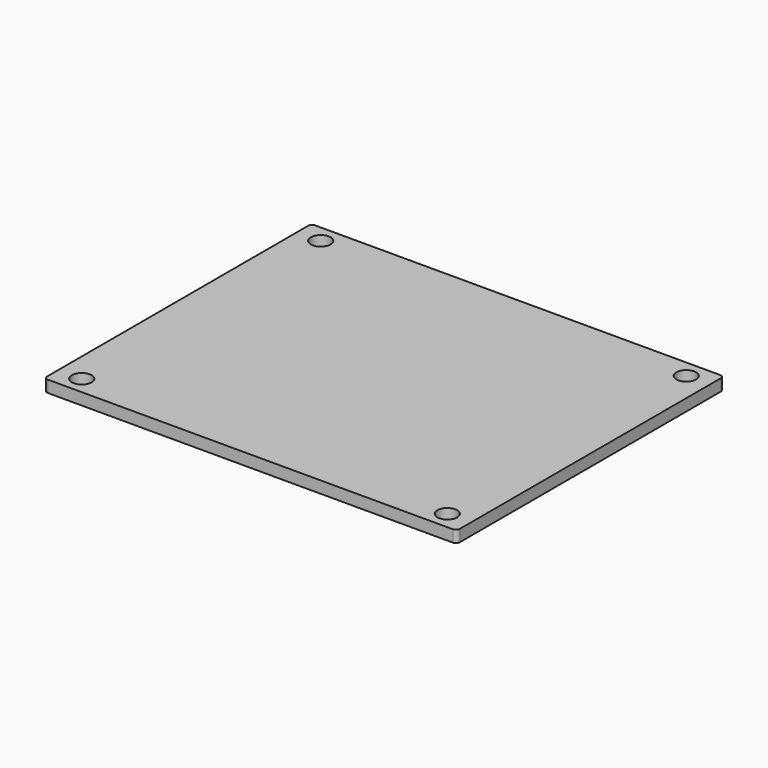
from build123d import *

# Parameters (mm, degrees)
SKETCH_W    = 105
SKETCH_H    = 85
SKETCH_R    = 2.5
PAD_DEPTH   = 3
FILLET_R    = 1
FILLET001_R = 1


with BuildPart() as part:
    # Sketch → Pad (new body)
    with BuildSketch(Plane.XY):
        Rectangle(SKETCH_W, SKETCH_H)
        with Locations((-46.5, 38)):
            Circle(SKETCH_R, mode=Mode.SUBTRACT)
        with Locations((46.5, 38)):
            Circle(SKETCH_R, mode=Mode.SUBTRACT)
        with Locations((-46.5, -38)):
            Circle(SKETCH_R, mode=Mode.SUBTRACT)
        with Locations((46.5, -38)):
            Circle(SKETCH_R, mode=Mode.SUBTRACT)
    extrude(amount=PAD_DEPTH)

    # Fillet
    fillet_edges = [part.edges().sort_by_distance(p)[0] for p in [
        (52.5, 42.5, 1.5),
    ]]
    fillet(fillet_edges, radius=FILLET_R)

    # Fillet001
    fillet001_edges = [part.edges().sort_by_distance(p)[0] for p in [
        (-52.5, 42.5, 1.5),
        (52.5, -42.5, 1.5),
        (-52.5, -42.5, 1.5),
    ]]
    fillet(fillet001_edges, radius=FILLET001_R)


solid = part.part
